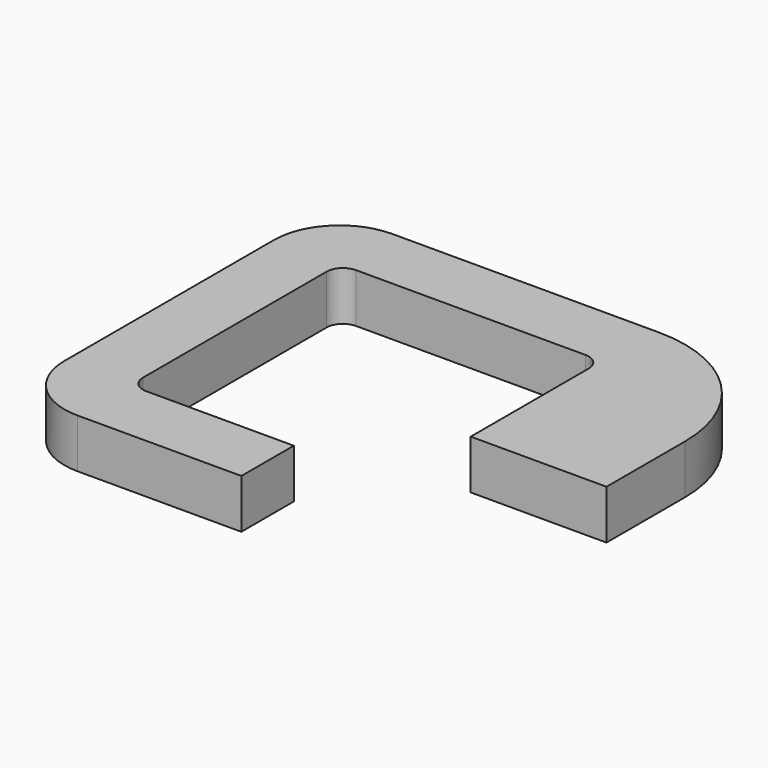
from build123d import *

# Parameters (mm, degrees)
F1_DEPTH = 2.38125


with BuildPart() as f1:
    # F0 (on Top) → F1 (new body, symmetric)
    with BuildSketch(Plane.XY):
        with BuildLine():
            Line((-4.58784, -7.029064), (-30.438803, -7.029064))
            ThreePointArc((-30.438803, -7.029064), (-34.928931, -8.888936), (-36.788803, -13.379064))
            Line((-36.788803, -13.379064), (-36.788803, -38.779064))
            ThreePointArc((-36.788803, -38.779064), (-34.928931, -43.269193), (-30.438803, -45.129064))
            Line((-30.438803, -45.129064), (-14.563803, -45.129064))
            Line((-14.563803, -45.129064), (-14.563803, -38.779064))
            Line((-14.563803, -38.779064), (-28.851303, -38.779064))
            ThreePointArc((-28.851303, -38.779064), (-29.973835, -38.314096), (-30.438803, -37.191564))
            Line((-30.438803, -37.191564), (-30.438803, -14.966564))
            ThreePointArc((-30.438803, -14.966564), (-29.973835, -13.844032), (-28.851303, -13.379064))
            Line((-28.851303, -13.379064), (-6.626303, -13.379064))
            ThreePointArc((-6.626303, -13.379064), (-5.503771, -13.844032), (-5.038803, -14.966564))
            Line((-5.038803, -14.966564), (-5.038803, -29.254064))
            Line((-5.038803, -29.254064), (1.311197, -29.254064))
            Line((1.311197, -29.254064), (8.11216, -29.254064))
            Line((8.11216, -29.254064), (8.11216, -19.729064))
            ThreePointArc((8.11216, -19.729064), (4.392416, -10.748808), (-4.58784, -7.029064))
        make_face()
    extrude(amount=F1_DEPTH, both=True)


solid = f1.part
